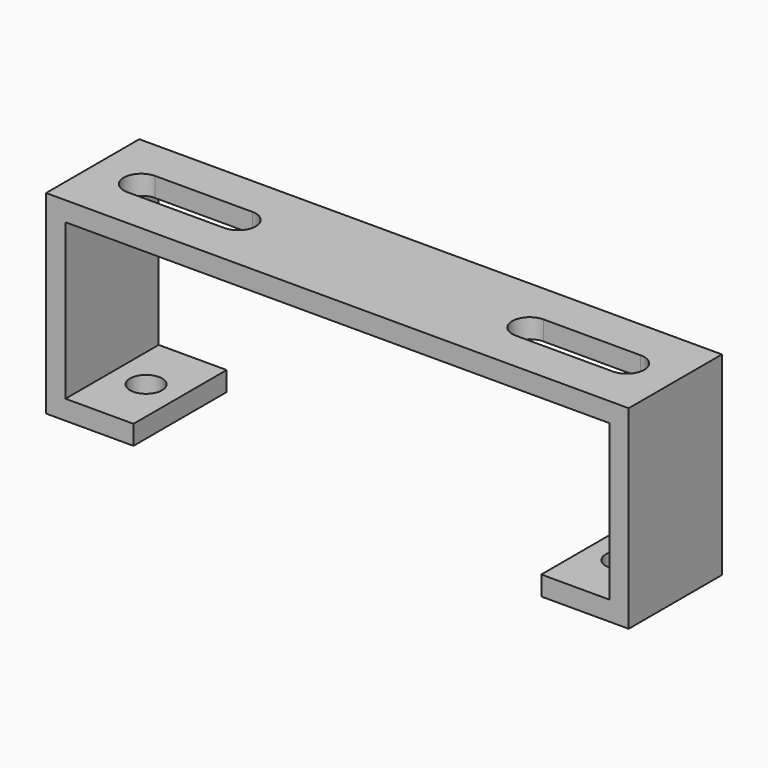
from build123d import *

# Parameters (mm, degrees)
F0_W      = 60
F0_H      = 12
F1_DEPTH  = 20
F2_W      = 42
F2_H      = 2
F3_DEPTH  = 12.001
F4_DEPTH  = 12.001
F6_D      = 3.3
F6_DEPTH  = 2.001
F8_D      = 3.3
F8_DEPTH  = 2.001
F10_D     = 3.6
F10_DEPTH = 12
F10_TIP   = 1.0815491142
F9_W      = 10
F9_H      = 3.6
F11_DEPTH = 12.5


with BuildPart() as f1:
    # F0 (on Top) → F1 (new body)
    with BuildSketch(Plane.XY):
        Rectangle(F0_W, F0_H)
    extrude(amount=F1_DEPTH)

    # F2 (on face) → F3 (cut, through all)
    with BuildSketch(Plane.XZ.offset(6)):
        Polygon((28, 18), (-28, 18), (-28, 2), (-21, 2), (21, 2), (28, 2), align=None)
        with Locations((0, 1)):
            Rectangle(F2_W, F2_H)
    extrude(amount=-F3_DEPTH, mode=Mode.SUBTRACT)

    # F2 (on face) → F4 (cut, through all)
    with BuildSketch(Plane.XZ.offset(6)):
        Polygon((28, 18), (-28, 18), (-28, 2), (-21, 2), (21, 2), (28, 2), align=None)
        with Locations((0, 1)):
            Rectangle(F2_W, F2_H)
    extrude(amount=-F4_DEPTH, mode=Mode.SUBTRACT)

    # F6 (through all, one way)
    with BuildSketch(Plane.XY.offset(2)):
        with Locations((-24.5, 0)):
            Circle(F6_D / 2)
    extrude(amount=-F6_DEPTH, mode=Mode.SUBTRACT)

    # F8 (through all, one way)
    with BuildSketch(Plane.XY.offset(2)):
        with Locations((24.5, 0)):
            Circle(F8_D / 2)
    extrude(amount=-F8_DEPTH, mode=Mode.SUBTRACT)

    # F10
    with Locations(Plane.XY.offset(20)):
        with Locations((-15, 0), (15, 0), (-25, 0), (25, 0)):
            Hole(F10_D / 2, depth=F10_DEPTH)
            with Locations((0, 0, -(F10_DEPTH + F10_TIP / 2))):  # 118° drill point
                Cone(0, F10_D / 2, F10_TIP, mode=Mode.SUBTRACT)

    # F9 (on face) → F11 (cut, symmetric)
    with BuildSketch(Plane.XY.offset(20)):
        with Locations((-20, 0)):
            Rectangle(F9_W, F9_H)
        with Locations((20, 0)):
            Rectangle(F9_W, F9_H)
    extrude(amount=F11_DEPTH, both=True, mode=Mode.SUBTRACT)


solid = f1.part
